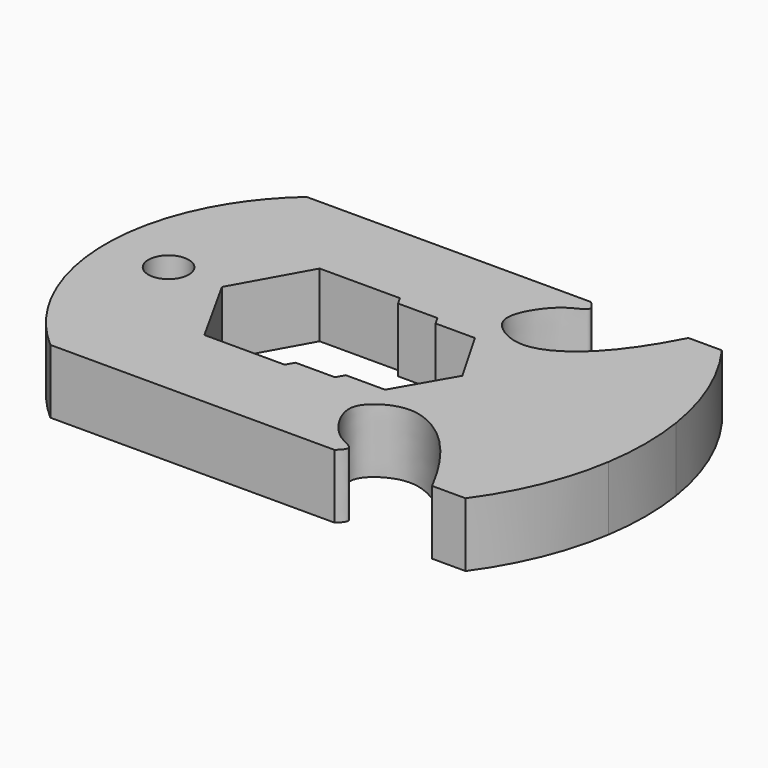
from build123d import *

# Parameters (mm, degrees)
F0_R     = 2
F1_DEPTH = 6.35


with BuildPart() as f1:
    # F0 (on Top) → F1 (new body)
    with BuildSketch(Plane.XY):
        with BuildLine():
            Line((-25.4, -9.7533396771), (-25.4, 9.7533396771))
            ThreePointArc((-25.4, 9.7533396771), (-27.7943947705, 0), (-25.4, -9.7533396771))
        make_face()
        with BuildLine():
            Line((7.5996425003, 15.875), (-20.574, 15.875))
            ThreePointArc((-20.574, 15.875), (-23.2726776835, 13.0393833309), (-25.4, 9.7533396771))
            Line((-25.4, 9.7533396771), (-25.4, -9.7533396771))
            ThreePointArc((-25.4, -9.7533396771), (-23.2726776835, -13.0393833309), (-20.574, -15.875))
            Line((-20.574, -15.875), (7.5996425003, -15.875))
            add(Edge.make_bspline(
                [(17.2575954348, -15.875), (16.8118674755, -15.0360308318), (15.7777378861, -13.0895457095), (12.6385533239, -8.7628284751), (8.4438454096, -6.4903546022), (5.4576611574, -7.5578133093), (3.6996913649, -9.434816458), (4.9096520026, -12.30721807), (6.6995754798, -14.1477736043), (8.6865320781, -14.7997007485), (7.9445844593, -15.5337364181), (7.5996425003, -15.875)],
                knots=[0, 0, 0, 0, 0.1172509784, 0.2720329825, 0.4136469471, 0.5269156212, 0.6254604471, 0.7364742974, 0.8471369559, 0.9289318052, 1, 1, 1, 1], degree=3))
            Line((17.2575954348, -15.875), (19.5524021983, -15.875))
            ThreePointArc((19.5524021983, -15.875), (24.535980368, 0), (19.5524021983, 15.875))
            Line((19.5524021983, 15.875), (17.2575954348, 15.875))
            add(Edge.make_bspline(
                [(17.2575954348, 15.875), (16.8118674755, 15.0360308318), (15.7777378861, 13.0895457095), (12.6385533239, 8.7628284751), (8.4438454096, 6.4903546022), (5.4576611574, 7.5578133093), (3.6996913649, 9.434816458), (4.9096520026, 12.30721807), (6.6995754798, 14.1477736043), (8.6865320781, 14.7997007485), (7.9445844593, 15.5337364181), (7.5996425003, 15.875)],
                knots=[0, 0, 0, 0, 0.1172509784, 0.2720329825, 0.4136469471, 0.5269156212, 0.6254604471, 0.7364742974, 0.8471369559, 0.9289318052, 1, 1, 1, 1], degree=3))
        make_face()
        with Locations((-21.5576495975, 0)):
            Circle(F0_R, mode=Mode.SUBTRACT)
        Polygon((-16.2712801248, 0), (-12.2982449182, 7.1374), (-4.3480449182, 7.1374), (-3.8934393163, 6.35), (0, 6.35), (0.4617137668, 5.5502882974), (4.3540745974, 5.5502882974), (7.5559447504, 0.0061843585), (4.3434, -5.5581063708), (0.4572, -5.5581063708), (0, -6.35), (-3.8934393163, -6.35), (-4.3480449182, -7.1374), (-12.2982449182, -7.1374), align=None, mode=Mode.SUBTRACT)
        with BuildLine():
            ThreePointArc((25.4, -4.1788812389), (25.7248773783, 0), (25.4, 4.1788812389))
            Line((25.4, 4.1788812389), (25.4, -4.1788812389))
        make_face()
        with BuildLine():
            Line((20.574, 15.875), (19.5524021983, 15.875))
            ThreePointArc((19.5524021983, 15.875), (24.535980368, 0), (19.5524021983, -15.875))
            Line((19.5524021983, -15.875), (20.574, -15.875))
            ThreePointArc((20.574, -15.875), (23.6807693851, -10.3132006276), (25.4, -4.1788812389))
            Line((25.4, -4.1788812389), (25.4, 4.1788812389))
            ThreePointArc((25.4, 4.1788812389), (23.6807693851, 10.3132006276), (20.574, 15.875))
        make_face()
    extrude(amount=F1_DEPTH)


solid = f1.part
